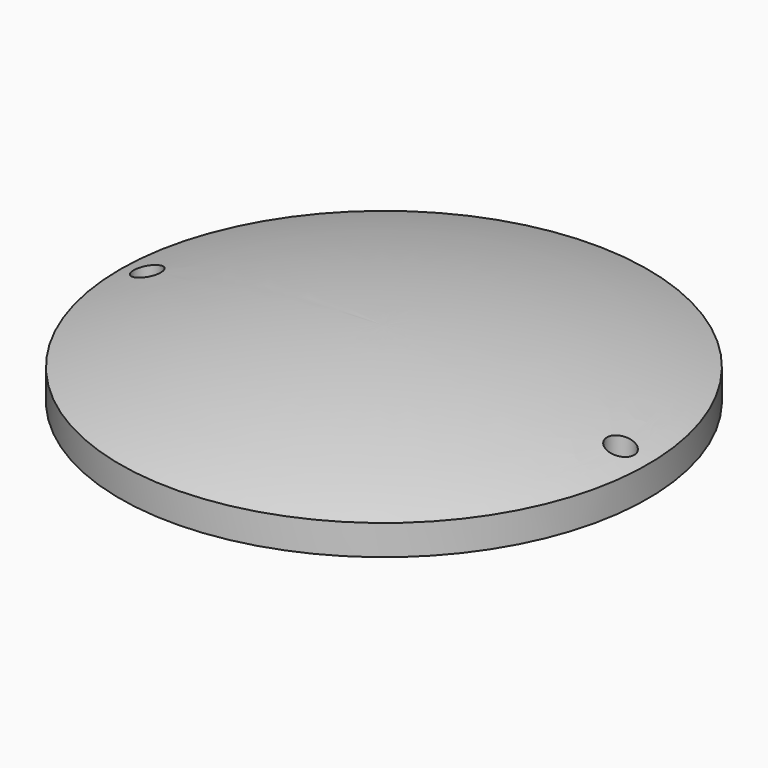
from build123d import *

# Parameters (mm, degrees)
F0_R     = 1.143
F3_DEPTH = 5.621709


with BuildPart() as f2:
    # F1 (on Front) → F2 (revolve)
    with BuildSketch(Plane.XZ):
        with BuildLine():
            Line((-22.240523, 2.54), (-22.240523, 0))
            ThreePointArc((-22.240523, 0), (-11.226438, 2.306873), (0, 3.080709))
            Line((0, 3.080709), (0, 5.620709))
            ThreePointArc((0, 5.620709), (-11.226438, 4.846873), (-22.240523, 2.54))
        make_face()
    revolve(axis=Axis((0, 0, 4.350709), (0, 0, 1)))

    # F0 (on Top) → F3 (cut, through all)
    with BuildSketch(Plane.XY):
        with Locations((-19.939, 0)):
            Circle(F0_R)
        with Locations((19.939, 0)):
            Circle(F0_R)
    extrude(amount=F3_DEPTH, mode=Mode.SUBTRACT)


solid = f2.part
